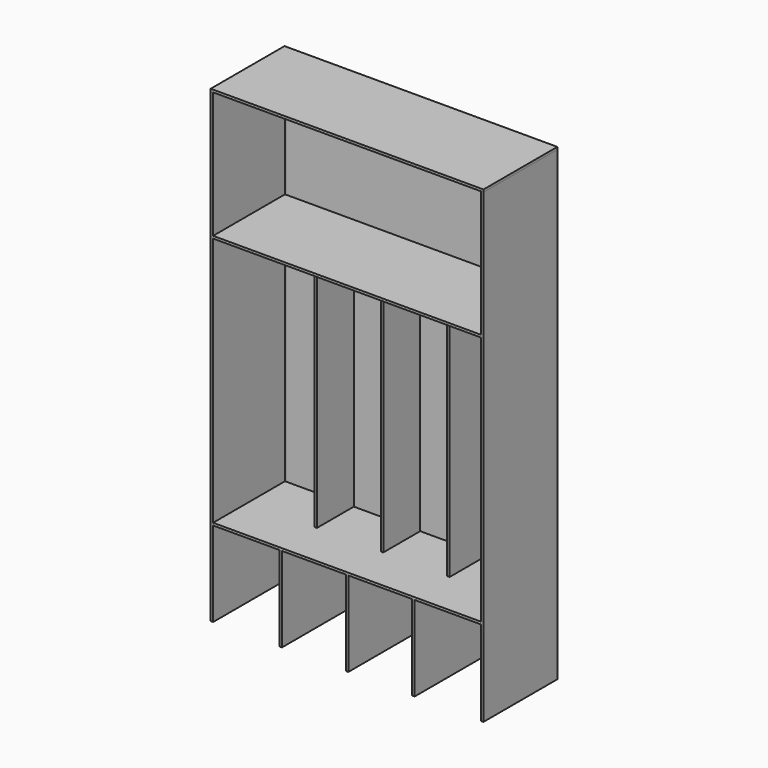
from build123d import *

# Parameters (mm, degrees)
F0_W      = 1397
F0_H      = 2438.4
F1_DEPTH  = 12.7
F2_W      = 482.6
F2_H      = 2438.4
F3_DEPTH  = 12.7
F5_W      = 1426.4482096374
F5_H      = 482.6
F6_DEPTH  = 12.7
F8_W      = 1401.0482096374
F8_H      = 469.9
F9_DEPTH  = 12.7
F11_W     = 1401.0482096374
F11_H     = 482.6
F12_DEPTH = 12.7
F13_W     = 12.7
F13_H     = 254
F14_DEPTH = 1308.1
F15_W     = 12.7
F15_H     = 469.9
F16_DEPTH = 444.5


with BuildPart() as f1:
    # F0 (on Front) → F1 (new body)
    with BuildSketch(Plane.XZ):
        with Locations((-2.0241048187, 361.6945657248)):
            Rectangle(F0_W, F0_H)
    extrude(amount=F1_DEPTH)

    # F2 (on face) → F3 (join)
    with BuildSketch(Plane(origin=(-700.5241048187, 0, 0), x_dir=(0, -1, 0), z_dir=(-1, 0, 0))):
        with Locations((241.3, 361.6945657248)):
            Rectangle(F2_W, F2_H)
    extrude(amount=F3_DEPTH)


with BuildPart() as f4_1:
    # F4: instance of F1
    add(f1.part.mirror(Plane.YZ))


with BuildPart() as f6:
    # F5 (on face) → F6 (new body)
    with BuildSketch(Plane.XY.offset(1580.8945657248)):
        with Locations((0, -241.3)):
            Rectangle(F5_W, F5_H)
    extrude(amount=F6_DEPTH)


with BuildPart() as f9:
    # F8 (on offset) → F9 (new body)
    with BuildSketch(Plane(origin=(0, 0, -400.3054342752), x_dir=(1, 0, 0), z_dir=(0, 0, -1))):
        with Locations((0, 247.65)):
            Rectangle(F8_W, F8_H)
    extrude(amount=F9_DEPTH)


with BuildPart() as f12:
    # F11 (on offset) → F12 (new body)
    with BuildSketch(Plane(origin=(0, 0, 920.4945657248), x_dir=(1, 0, 0), z_dir=(0, 0, -1))):
        with Locations((0, 241.3)):
            Rectangle(F11_W, F11_H)
    extrude(amount=F12_DEPTH)


with BuildPart() as f14:
    # F13 (on face) → F14 (new body, through all)
    with BuildSketch(Plane(origin=(0, 0, 907.7945657248), x_dir=(1, 0, 0), z_dir=(0, 0, -1))):
        with Locations((-347.0870524094, 127)):
            Rectangle(F13_W, F13_H)
    extrude(amount=F14_DEPTH)


with BuildPart() as f14b:
    # F13 (on face) → F14, piece 2 (new body, through all)
    with BuildSketch(Plane(origin=(0, 0, 907.7945657248), x_dir=(1, 0, 0), z_dir=(0, 0, -1))):
        with Locations((0, 127)):
            Rectangle(F13_W, F13_H)
    extrude(amount=F14_DEPTH)


with BuildPart() as f14c:
    # F13 (on face) → F14, piece 3 (new body, through all)
    with BuildSketch(Plane(origin=(0, 0, 907.7945657248), x_dir=(1, 0, 0), z_dir=(0, 0, -1))):
        with Locations((347.0870524094, 127)):
            Rectangle(F13_W, F13_H)
    extrude(amount=F14_DEPTH)


with BuildPart() as f16:
    # F15 (on face) → F16 (new body, through all)
    with BuildSketch(Plane(origin=(0, 0, -413.0054342752), x_dir=(1, 0, 0), z_dir=(0, 0, -1))):
        with Locations((-347.0870524094, 247.65)):
            Rectangle(F15_W, F15_H)
    extrude(amount=F16_DEPTH)


with BuildPart() as f16b:
    # F15 (on face) → F16, piece 2 (new body, through all)
    with BuildSketch(Plane(origin=(0, 0, -413.0054342752), x_dir=(1, 0, 0), z_dir=(0, 0, -1))):
        with Locations((0, 247.65)):
            Rectangle(F15_W, F15_H)
    extrude(amount=F16_DEPTH)


with BuildPart() as f16c:
    # F15 (on face) → F16, piece 3 (new body, through all)
    with BuildSketch(Plane(origin=(0, 0, -413.0054342752), x_dir=(1, 0, 0), z_dir=(0, 0, -1))):
        with Locations((347.0870524094, 247.65)):
            Rectangle(F15_W, F15_H)
    extrude(amount=F16_DEPTH)


solid = Compound([f1.part, f4_1.part, f6.part, f9.part, f12.part, f14.part, f14b.part, f14c.part, f16.part, f16b.part, f16c.part])
